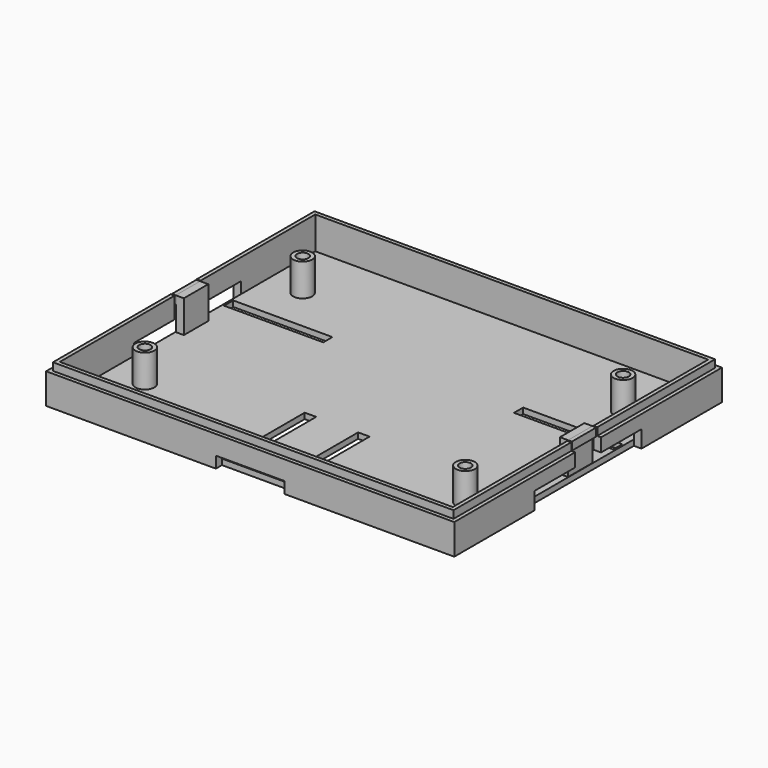
from build123d import *

# Parameters (mm, degrees)
SKETCH_W             = 107
SKETCH_H             = 87.7
SKETCH_R             = 1.5
SKETCH_W_2           = 3
SKETCH_H_2           = 26
SKETCH_W_3           = 26
SKETCH_H_3           = 3
PAD_DEPTH            = 10
SKETCH001_W          = 103
SKETCH001_H          = 83.7
SKETCH001_R          = 2.5
POCKET_DEPTH         = 8.5
SKETCH002_W          = 107
SKETCH002_H          = 87.7
SKETCH002_W_2        = 105
SKETCH002_H_2        = 85.7
POCKET001_DEPTH      = 2
SKETCH003_W          = 8.5
SKETCH003_H          = 8.5
POCKET002_DEPTH      = 53.501
POCKET002_DEPTH_BACK = 53.501
SKETCH004_W          = 18
SKETCH004_H          = 3
POCKET003_DEPTH      = 2
SKETCH005_W          = 35
SKETCH005_H          = 4.5
POCKET004_DEPTH      = 2
SKETCH006_W          = 35
SKETCH006_H          = 4.5
POCKET005_DEPTH      = 2
SKETCH007_W          = 2.120422
SKETCH007_H          = 8
PAD001_DEPTH         = 8.5
SKETCH008_W          = 7.99724
SKETCH008_H          = 2.093498
PAD002_DEPTH         = 1


with BuildPart() as part:
    # Sketch → Pad (new body)
    with BuildSketch(Plane.XY):
        Rectangle(SKETCH_W, SKETCH_H)
        with Locations((-42, -25.85)):
            Circle(SKETCH_R, mode=Mode.SUBTRACT)
        with Locations((42, 25.85)):
            Circle(SKETCH_R, mode=Mode.SUBTRACT)
        with Locations((-7, -28.35)):
            Rectangle(SKETCH_W_2, SKETCH_H_2, mode=Mode.SUBTRACT)
        with Locations((7, -28.35)):
            Rectangle(SKETCH_W_2, SKETCH_H_2, mode=Mode.SUBTRACT)
        with Locations((38, 12.85)):
            Rectangle(SKETCH_W_3, SKETCH_H_3, mode=Mode.SUBTRACT)
        with Locations((-38, 12.85)):
            Rectangle(SKETCH_W_3, SKETCH_H_3, mode=Mode.SUBTRACT)
    extrude(amount=PAD_DEPTH)

    # Sketch001 (on Face24 of Pad) → Pocket (cut)
    with BuildSketch(Plane.XY.offset(10)):
        Rectangle(SKETCH001_W, SKETCH001_H)
        with Locations((-42, -25.85)):
            Circle(SKETCH001_R, mode=Mode.SUBTRACT)
        with Locations((42, 25.85)):
            Circle(SKETCH001_R, mode=Mode.SUBTRACT)
    extrude(amount=-POCKET_DEPTH, mode=Mode.SUBTRACT)

    # Sketch002 (on Face5 of Pocket) → Pocket001 (cut)
    with BuildSketch(Plane.XY.offset(10)):
        Rectangle(SKETCH002_W, SKETCH002_H)
        Rectangle(SKETCH002_W_2, SKETCH002_H_2, mode=Mode.SUBTRACT)
    extrude(amount=-POCKET001_DEPTH, mode=Mode.SUBTRACT)

    # Sketch003 → Pocket002 (cut, two sides)
    with BuildSketch(Plane.YZ) as pocket002_sk:
        with Locations((0, 5.75)):
            Rectangle(SKETCH003_W, SKETCH003_H)
    extrude(amount=-POCKET002_DEPTH, mode=Mode.SUBTRACT)
    extrude(pocket002_sk.sketch, amount=POCKET002_DEPTH_BACK, mode=Mode.SUBTRACT)

    # Sketch004 (on Face1 of Pocket002) → Pocket003 (cut)
    with BuildSketch(Plane.XZ.offset(43.85)):
        with Locations((0, 1.5)):
            Rectangle(SKETCH004_W, SKETCH004_H)
    extrude(amount=-POCKET003_DEPTH, mode=Mode.SUBTRACT)

    # Sketch005 (on Face6 of Pocket003) → Pocket004 (cut)
    with BuildSketch(Plane.YZ.offset(53.5)):
        with Locations((0, 2.25)):
            Rectangle(SKETCH005_W, SKETCH005_H)
    extrude(amount=-POCKET004_DEPTH, mode=Mode.SUBTRACT)

    # Sketch006 (on Face8 of Pocket004) → Pocket005 (cut)
    with BuildSketch(Plane(origin=(-53.5, 0, 0), x_dir=(0, -1, 0), z_dir=(-1, 0, 0))):
        with Locations((0, 2.25)):
            Rectangle(SKETCH006_W, SKETCH006_H)
    extrude(amount=-POCKET005_DEPTH, mode=Mode.SUBTRACT)

    # Sketch007 (on Face49 of Pocket005) → Pad001 (join)
    with BuildSketch(Plane.XY.offset(1.5)):
        with Locations((-50.350937, 0.030608)):
            Rectangle(SKETCH007_W, SKETCH007_H)
    extrude(amount=PAD001_DEPTH)

    # Sketch008 (on Face64 of Pad001) → Pad002 (join)
    with BuildSketch(Plane(origin=(-51.411148, 0, 0), x_dir=(0, -1, 0), z_dir=(-1, 0, 0))):
        with Locations((-0.030066, 8.95208)):
            Rectangle(SKETCH008_W, SKETCH008_H)
    extrude(amount=PAD002_DEPTH)

    # Mirrored: part across YZ


with BuildPart() as part_1:
    add(part.part)
    add(part.part.mirror(Plane.YZ))


solid = part_1.part
